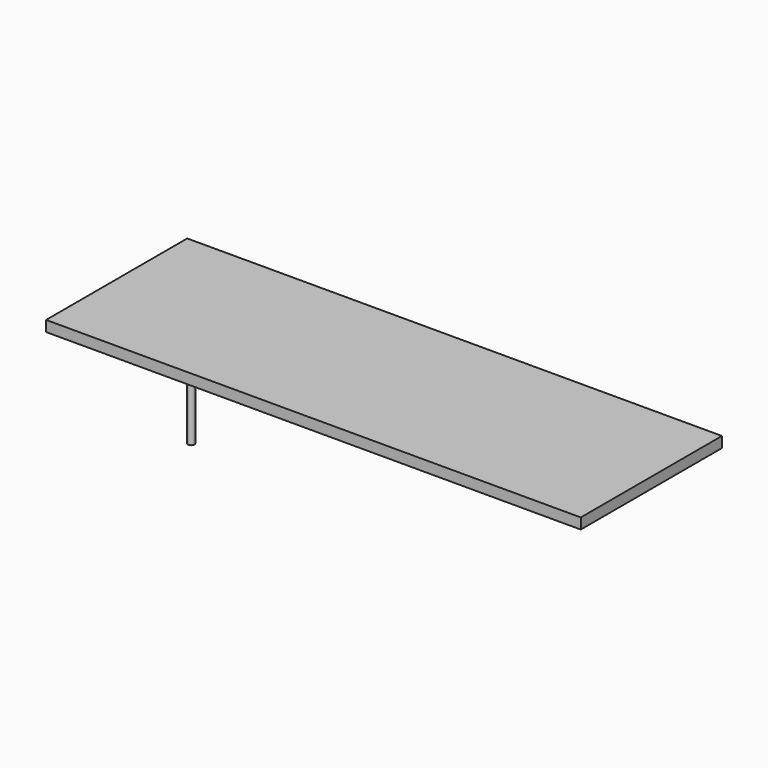
from build123d import *

# Parameters (mm, degrees)
F0_W     = 1000
F0_H     = 330
F1_DEPTH = 20
F2_R     = 6
F3_DEPTH = 300


with BuildPart() as f1:
    # F0 (on Top) → F1 (new body)
    with BuildSketch(Plane.XY):
        with Locations((-0.023669, -0.134923)):
            Rectangle(F0_W, F0_H)
    extrude(amount=F1_DEPTH)


with BuildPart() as f3:
    # F2 (on face) → F3 (new body)
    with BuildSketch(Plane(origin=(0, 0, 0), x_dir=(1, 0, 0), z_dir=(0, 0, -1))):
        with Locations((-474.59157, -142.38822)):
            Circle(F2_R)
    extrude(amount=F3_DEPTH)


solid = Compound([f1.part, f3.part])
